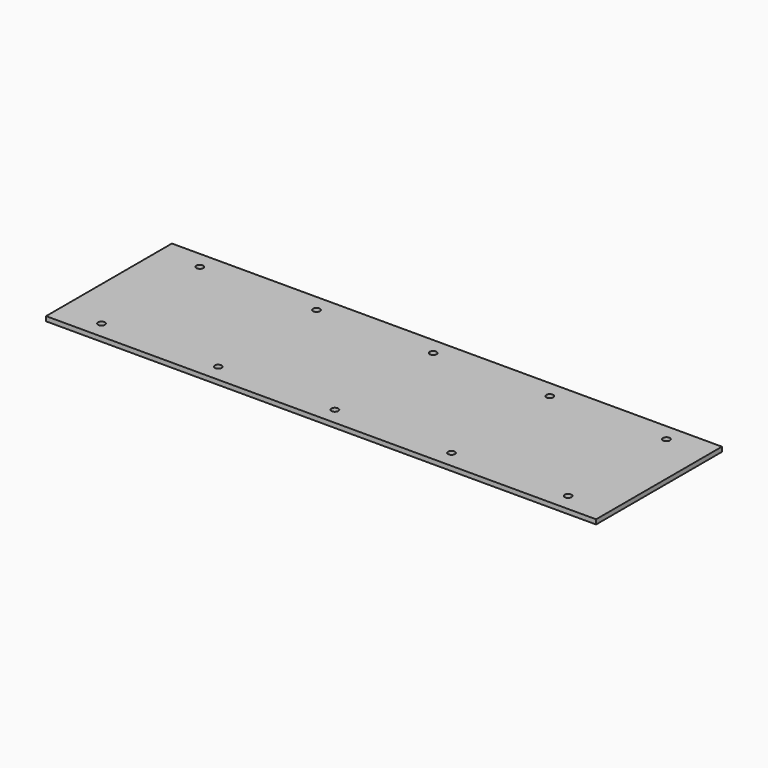
from build123d import *

# Parameters (mm, degrees)
F0_W     = 239.52708
F0_H     = 68.5
F1_DEPTH = 2
F2_R     = 1.5
F3_DEPTH = 2.001


with BuildPart() as f1:
    # F0 (on Top) → F1 (new body)
    with BuildSketch(Plane.XY):
        with Locations((17.701121, -25.228894)):
            Rectangle(F0_W, F0_H)
    extrude(amount=F1_DEPTH)

    # F2 (on face) → F3 (cut, through all)
    with BuildSketch(Plane.XY.offset(2)):
        with BuildLine():
            ThreePointArc((70.001121, 1.521106), (68.501121, 3.021106), (67.001121, 1.521106))
            Line((67.001121, 1.521106), (70.001121, 1.521106))
        make_face()
        with BuildLine():
            Line((70.001121, 1.521106), (67.001121, 1.521106))
            ThreePointArc((67.001121, 1.521106), (68.501121, 0.021106), (70.001121, 1.521106))
        make_face()
        with BuildLine():
            ThreePointArc((19.201121, 1.521106), (17.701121, 3.021106), (16.201121, 1.521106))
            Line((16.201121, 1.521106), (19.201121, 1.521106))
        make_face()
        with BuildLine():
            Line((19.201121, 1.521106), (16.201121, 1.521106))
            ThreePointArc((16.201121, 1.521106), (17.701121, 0.021106), (19.201121, 1.521106))
        make_face()
        with BuildLine():
            ThreePointArc((-31.598879, 1.521106), (-33.098879, 3.021106), (-34.598879, 1.521106))
            Line((-34.598879, 1.521106), (-31.598879, 1.521106))
        make_face()
        with BuildLine():
            Line((-31.598879, 1.521106), (-34.598879, 1.521106))
            ThreePointArc((-34.598879, 1.521106), (-33.098879, 0.021106), (-31.598879, 1.521106))
        make_face()
        with BuildLine():
            ThreePointArc((-85.398879, 1.521106), (-83.898879, 0.021106), (-82.398879, 1.521106))
            Line((-82.398879, 1.521106), (-85.398879, 1.521106))
        make_face()
        with BuildLine():
            Line((-85.398879, 1.521106), (-82.398879, 1.521106))
            ThreePointArc((-82.398879, 1.521106), (-83.898879, 3.021106), (-85.398879, 1.521106))
        make_face()
        with Locations((119.301121, 1.521106)):
            Circle(F2_R)
        with Locations((119.301121, -51.978894)):
            Circle(F2_R)
        with Locations((68.501121, -51.978894)):
            Circle(F2_R)
        with Locations((17.701121, -51.978894)):
            Circle(F2_R)
        with Locations((-33.098879, -51.978894)):
            Circle(F2_R)
        with Locations((-83.898879, -51.978894)):
            Circle(F2_R)
    extrude(amount=-F3_DEPTH, mode=Mode.SUBTRACT)


solid = f1.part
